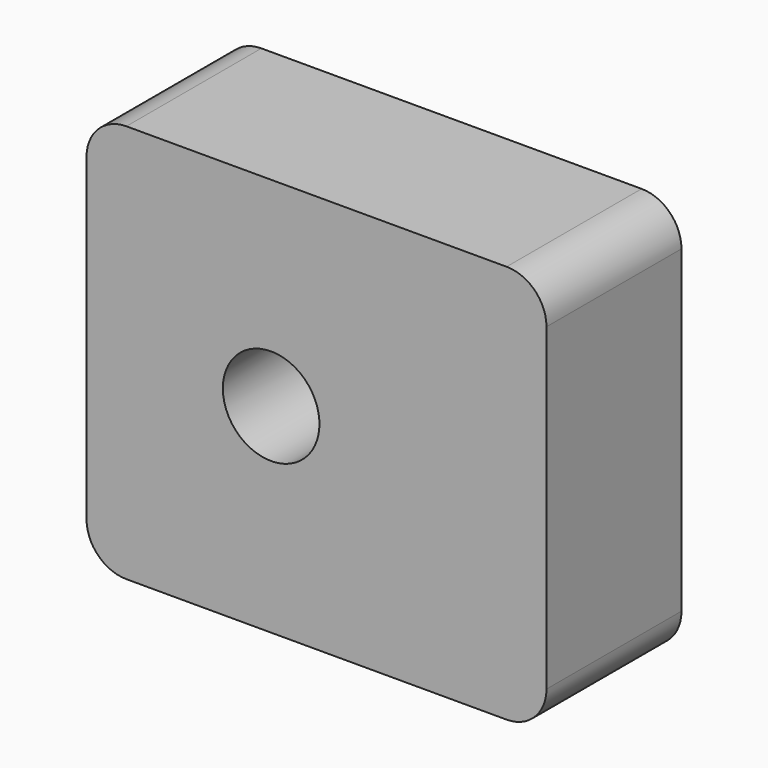
from build123d import *

# Parameters (mm, degrees)
F0_W     = 69.230199
F0_H     = 60.010768
F1_DEPTH = 25.4
F2_R     = 6
F3_R     = 7.269466
F4_DEPTH = 25.4


with BuildPart() as f1:
    # F0 (on Front) → F1 (new body)
    with BuildSketch(Plane.XZ):
        with Locations((6.827186, 30.005384)):
            Rectangle(F0_W, F0_H)
    extrude(amount=F1_DEPTH)

    # F2
    f2_edges = [f1.edges().sort_by_distance(p)[0] for p in [
        (41.442286, -12.7, 60.010768),
        (41.442286, -12.7, 0),
        (-27.787913, -12.7, 60.010768),
        (-27.787913, -12.7, 0),
    ]]
    fillet(f2_edges, radius=F2_R)

    # F3 (on face) → F4 (cut, through all)
    with BuildSketch(Plane(origin=(0, 0, 0), x_dir=(-1, 0, 0), z_dir=(0, 1, 0))):
        with Locations((0, 30.005384)):
            Circle(F3_R)
    extrude(amount=-F4_DEPTH, mode=Mode.SUBTRACT)


solid = f1.part
